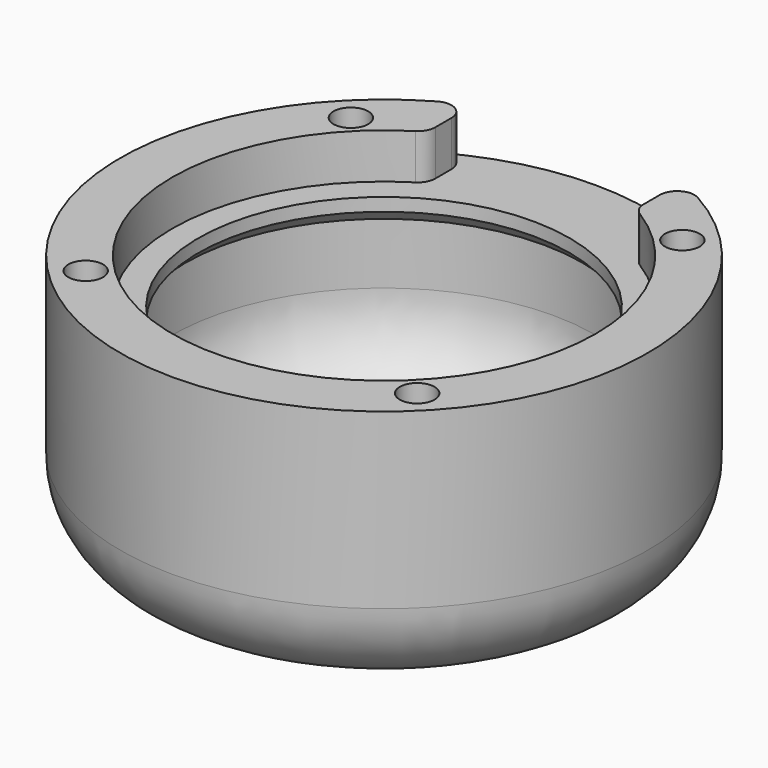
from build123d import *

# Parameters (mm, degrees)
SKETCH002_W     = 12
SKETCH002_H     = 2.6
POCKET_DEPTH    = 7
POCKET001_DEPTH = 1.5
FILLET_R        = 1
CHAMFER_SIZE    = 0.75
CHAMFER001_SIZE = 1.4
SKETCH013_R     = 1
POCKET007_DEPTH = 2


with BuildPart() as part:
    # Sketch → Revolution (revolve)
    with BuildSketch(Plane.YZ):
        with BuildLine():
            Line((-12.2, 2.6), (-15.2, 2.6))
            Line((-15.2, 2.6), (-15.2, -7.4))
            ThreePointArc((-15.2, -7.4), (-13.735534, -10.935534), (-10.2, -12.4))
            Line((-10.2, -12.4), (0, -12.4))
            Line((0, -12.4), (0, -10.4))
            Line((0, -10.4), (-7.2, -10.4))
            ThreePointArc((-12.2, -5.4), (-10.735534, -8.935534), (-7.2, -10.4))
            Line((-12.2, -1.5), (-12.2, -5.4))
            Line((-10.7, -1.5), (-12.2, -1.5))
            Line((-10.7, 0), (-10.7, -1.5))
            Line((-10.7, 0), (-12.2, 0))
            Line((-12.2, 2.6), (-12.2, 0))
        make_face()
    revolve(axis=Axis((0, 0, 0), (0, 0, 1)))

    # Sketch002 (on DatumPlane) → Pocket (cut)
    with BuildSketch(Plane(origin=(0, 15.2, 0), x_dir=(-1, 0, 0), z_dir=(0, 1, 0))):
        with Locations((0, 1.3)):
            Rectangle(SKETCH002_W, SKETCH002_H)
    extrude(amount=-POCKET_DEPTH, mode=Mode.SUBTRACT)

    # Sketch003 → Pocket001 (cut)
    with BuildSketch(Plane.XY):
        with BuildLine():
            ThreePointArc((-4.172646, -11.46425), (6.1, -10.56551), (12.014655, -2.118508))
            Line((12.014655, -2.118508), (10.537443, -1.858036))
            ThreePointArc((-3.659616, -10.054711), (5.35, -9.266472), (10.537443, -1.858036))
            Line((-4.172646, -11.46425), (-3.659616, -10.054711))
        make_face()
    extrude(amount=-POCKET001_DEPTH, mode=Mode.SUBTRACT)

    # Fillet
    fillet_edges = [part.edges().sort_by_distance(p)[0] for p in [
        (6, 10.622617, 1.3),
        (6, 13.965672, 1.3),
        (-6, 10.622617, 1.3),
        (-6, 13.965672, 1.3),
    ]]
    fillet(fillet_edges, radius=FILLET_R)

    # Chamfer
    chamfer_edges = [part.edges().sort_by_distance(p)[0] for p in [
        (-5.35, 9.266472, -1.5),
    ]]
    chamfer(chamfer_edges, length=CHAMFER_SIZE)

    # Chamfer001
    chamfer001_edges = [part.edges().sort_by_distance(p)[0] for p in [
        (-3.659616, -10.054711, -0.375),
        (10.537443, -1.858036, -0.375),
    ]]
    chamfer(chamfer001_edges, length=CHAMFER001_SIZE)

    # Sketch013 → Pocket007 (cut)
    with BuildSketch(Plane.XY.offset(2.6)):
        with Locations((9.545942, 9.545942)):
            Circle(SKETCH013_R)
        with Locations((-9.545942, 9.545942)):
            Circle(SKETCH013_R)
        with Locations((-9.545942, -9.545942)):
            Circle(SKETCH013_R)
        with Locations((9.545942, -9.545942)):
            Circle(SKETCH013_R)
    extrude(amount=-POCKET007_DEPTH, mode=Mode.SUBTRACT)


solid = part.part
